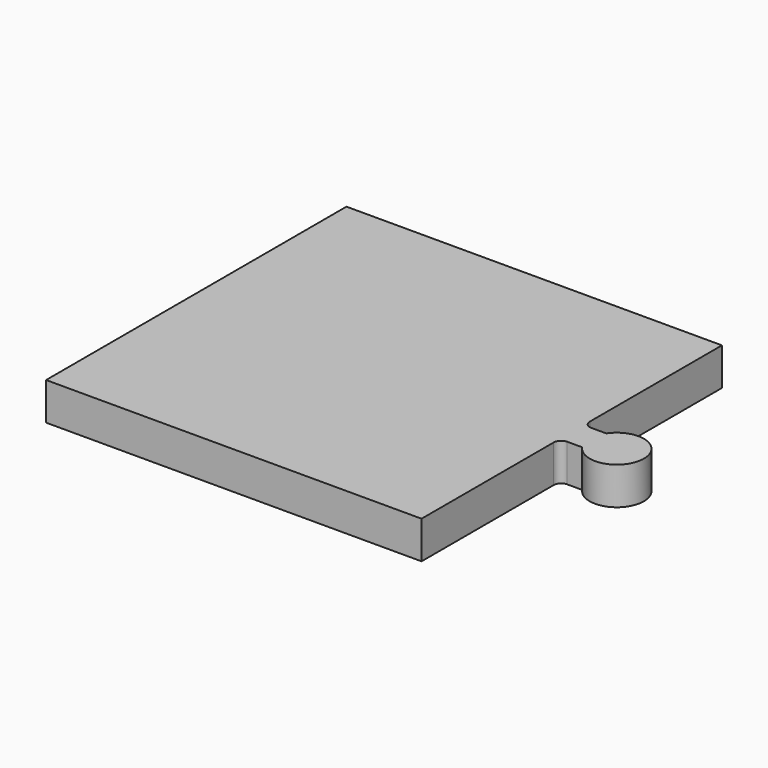
from build123d import *

# Parameters (mm, degrees)
F1_DEPTH = 5


with BuildPart() as f1:
    # F0 (on Top) → F1 (new body)
    with BuildSketch(Plane.XY):
        with BuildLine():
            Line((25, 3), (25, 25))
            Line((25, 25), (-25, 25))
            Line((-25, 25), (-25, -25))
            Line((-25, -25), (25, -25))
            Line((25, -25), (25, -3))
            ThreePointArc((25, -3), (25.292893, -2.292893), (26, -2))
            Line((26, -2), (28, -2))
            ThreePointArc((28, -2), (34.605551, 0), (28, 2))
            Line((28, 2), (26, 2))
            ThreePointArc((26, 2), (25.292893, 2.292893), (25, 3))
        make_face()
    extrude(amount=F1_DEPTH)


solid = f1.part
